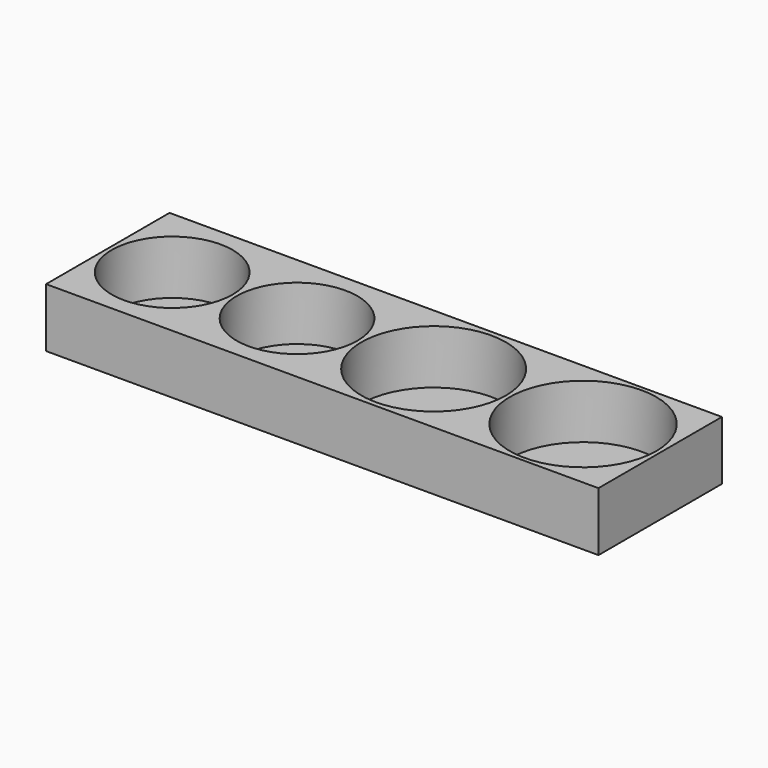
from build123d import *

# Parameters (mm, degrees)
F0_W     = 281
F0_H     = 78.5
F0_R     = 30.75
F0_R_2   = 36.75
F0_R_3   = 37.25
F0_R_4   = 2
F1_DEPTH = 2.5
F2_DEPTH = 30


with BuildPart() as f1:
    # F0 (on Top) → F1 (new body)
    with BuildSketch(Plane.XY):
        with Locations((140.5, 39.25)):
            Rectangle(F0_W, F0_H)
        with Locations((32.75, 39.25)):
            Circle(F0_R, mode=Mode.SUBTRACT)
        with Locations((96.25, 39.25)):
            Circle(F0_R, mode=Mode.SUBTRACT)
        with Locations((165.75, 39.25)):
            Circle(F0_R_2, mode=Mode.SUBTRACT)
        with Locations((241.75, 39.25)):
            Circle(F0_R_3, mode=Mode.SUBTRACT)
        with Locations((32.75, 39.25)):
            Circle(F0_R)
        with Locations((32.75, 39.25)):
            Circle(F0_R_4, mode=Mode.SUBTRACT)
        with Locations((96.25, 39.25)):
            Circle(F0_R)
        with Locations((96.25, 39.25)):
            Circle(F0_R_4, mode=Mode.SUBTRACT)
        with Locations((165.75, 39.25)):
            Circle(F0_R_2)
        with Locations((165.75, 39.25)):
            Circle(F0_R_4, mode=Mode.SUBTRACT)
        with Locations((241.75, 39.25)):
            Circle(F0_R_3)
        with Locations((241.75, 39.25)):
            Circle(F0_R_4, mode=Mode.SUBTRACT)
    extrude(amount=F1_DEPTH)

    # F0 (on Top) → F2 (join)
    with BuildSketch(Plane.XY):
        with Locations((140.5, 39.25)):
            Rectangle(F0_W, F0_H)
        with Locations((32.75, 39.25)):
            Circle(F0_R, mode=Mode.SUBTRACT)
        with Locations((96.25, 39.25)):
            Circle(F0_R, mode=Mode.SUBTRACT)
        with Locations((165.75, 39.25)):
            Circle(F0_R_2, mode=Mode.SUBTRACT)
        with Locations((241.75, 39.25)):
            Circle(F0_R_3, mode=Mode.SUBTRACT)
    extrude(amount=F2_DEPTH)


solid = f1.part
